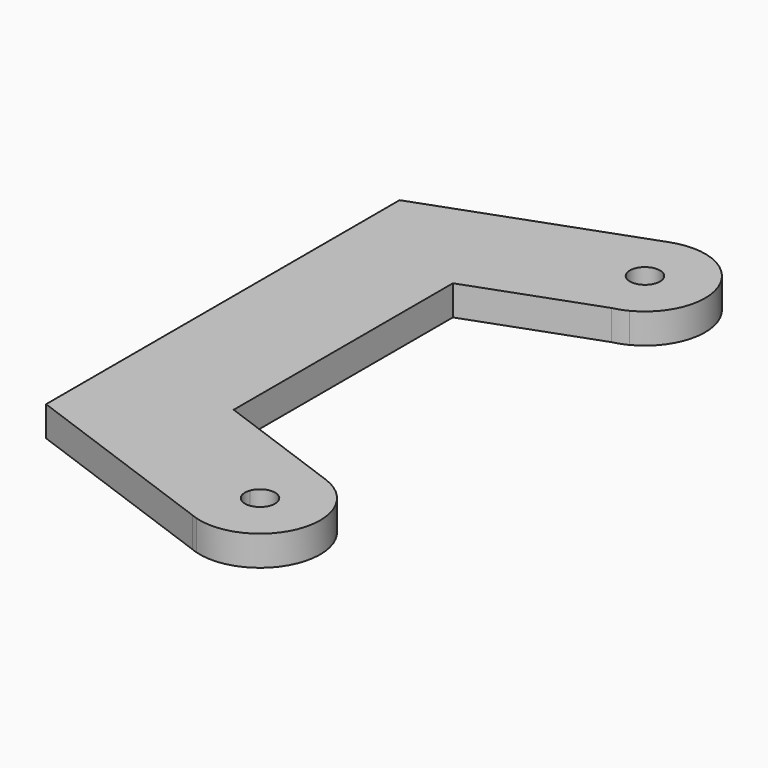
from build123d import *

# Parameters (mm, degrees)
F1_DEPTH = 6.35


with BuildPart() as f1:
    # F0 (on Top) → F1 (new body)
    with BuildSketch(Plane.XY):
        with BuildLine():
            ThreePointArc((-2.983524, 1.085914), (-0.551333, -3.126765), (3.175, 0))
            ThreePointArc((3.175, 0), (0.551333, 3.126765), (-2.983524, 1.085914))
        make_face()
        with BuildLine():
            ThreePointArc((3.175, 101.6), (-0.551333, 104.726765), (-2.983524, 100.514086))
            ThreePointArc((-2.983524, 100.514086), (0.551333, 98.473235), (3.175, 101.6))
        make_face()
        with BuildLine():
            Line((-3.720772, -12.142728), (-4.954918, -11.693536))
            ThreePointArc((-4.954918, -11.693536), (-4.343656, -11.934096), (-3.720772, -12.142728))
        make_face()
        with BuildLine():
            Line((-48.502289, 4.156411), (-4.954918, -11.693536))
            Line((-4.954918, -11.693536), (-3.720772, -12.142728))
            ThreePointArc((-3.720772, -12.142728), (12.04244, -4.033563), (4.343656, 11.934096))
            Line((4.343656, 11.934096), (-23.102289, 21.923603))
            Line((-23.102289, 21.923603), (-23.102289, 79.77832))
            Line((-23.102289, 79.77832), (2.848009, 89.223456))
            Line((2.848009, 89.223456), (5.773787, 90.288352))
            ThreePointArc((5.773787, 90.288352), (11.644848, 106.668286), (-4.343656, 113.534096))
            Line((-4.343656, 113.534096), (-48.502289, 97.461668))
            Line((-48.502289, 97.461668), (-48.502289, 4.156411))
        make_face()
        with BuildLine():
            ThreePointArc((-2.983524, 1.085914), (0.551333, 3.126765), (3.175, 0))
            ThreePointArc((3.175, 0), (-0.551333, -3.126765), (-2.983524, 1.085914))
        make_face(mode=Mode.SUBTRACT)
        with BuildLine():
            ThreePointArc((3.175, 101.6), (0.551333, 98.473235), (-2.983524, 100.514086))
            ThreePointArc((-2.983524, 100.514086), (-0.551333, 104.726765), (3.175, 101.6))
        make_face(mode=Mode.SUBTRACT)
        with BuildLine():
            ThreePointArc((2.848009, 89.223456), (4.343656, 89.665904), (5.773787, 90.288352))
            Line((5.773787, 90.288352), (2.848009, 89.223456))
        make_face()
    extrude(amount=F1_DEPTH)


solid = f1.part
